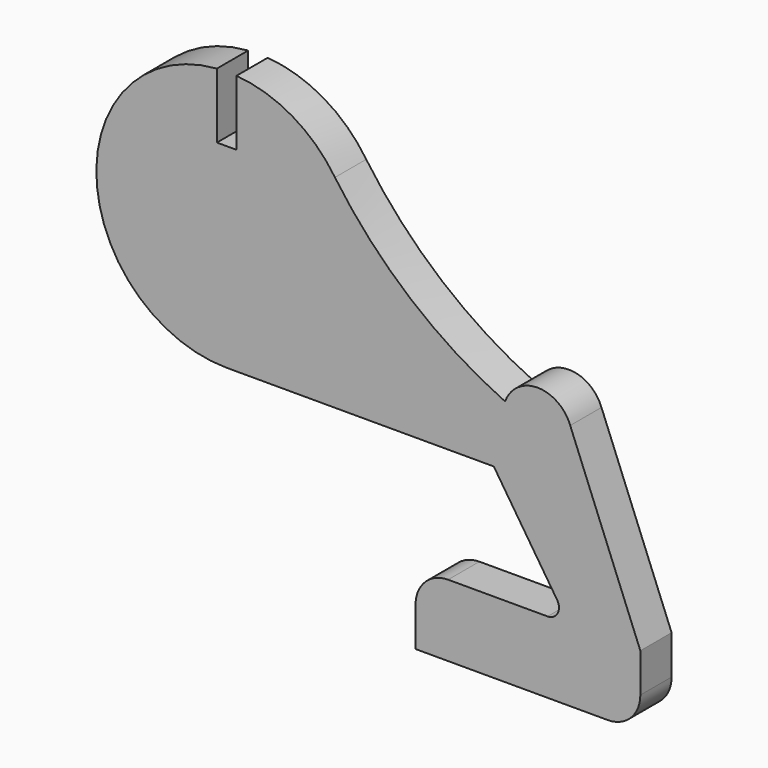
from build123d import *

# Parameters (mm, degrees)
F1_DEPTH      = 3
F1_DEPTH_BACK = 3


with BuildPart() as f1:
    # F0 (on Front) → F1 (new body, two sides)
    with BuildSketch(Plane.XZ) as f1_sk:
        with BuildLine():
            Line((-33.564271, 30.33508), (-33.564271, 40.33508))
            ThreePointArc((-33.564271, 40.33508), (-52.050184, 19.64088), (-32.064271, 0.391409))
            Line((-32.064271, 0.391409), (8.935729, 0.391409))
            Line((8.935729, 0.391409), (18.656258, -14.478584))
            ThreePointArc((18.656258, -14.478584), (18.730651, -16.268831), (17.191464, -17.186121))
            Line((17.191464, -17.186121), (1.926178, -17.186121))
            ThreePointArc((1.926178, -17.186121), (-1.609356, -18.650587), (-3.073822, -22.186121))
            Line((-3.073822, -22.186121), (-3.073822, -28.186121))
            Line((-3.073822, -28.186121), (26.426178, -28.186121))
            ThreePointArc((26.426178, -28.186121), (29.961712, -26.721655), (31.426178, -23.186121))
            Line((31.426178, -23.186121), (31.426178, -17.186121))
            Line((31.426178, -17.186121), (20.663875, 9.742912))
            ThreePointArc((20.663875, 9.742912), (15.663875, 13.228816), (10.663875, 9.742912))
            ThreePointArc((10.663875, 9.742912), (-3.840291, 18.894246), (-15.446488, 31.520169))
            ThreePointArc((-15.446488, 31.520169), (-21.990087, 37.668875), (-30.564271, 40.33508))
            Line((-30.564271, 40.33508), (-30.564271, 30.33508))
            Line((-30.564271, 30.33508), (-33.564271, 30.33508))
        make_face()
    extrude(amount=F1_DEPTH)
    extrude(f1_sk.sketch, amount=-F1_DEPTH_BACK)


solid = f1.part
